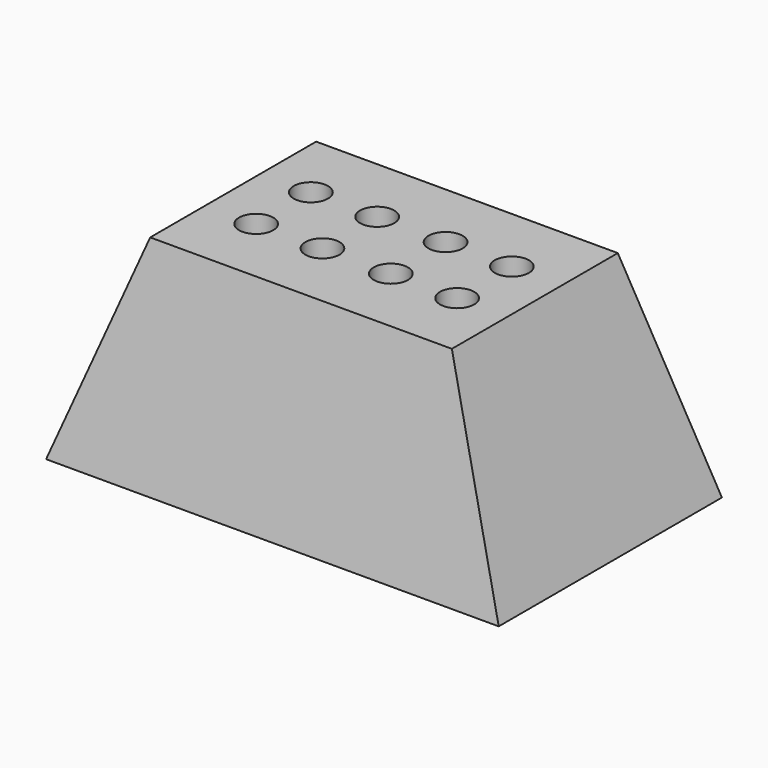
from build123d import *

# Parameters (mm, degrees)
F0_W     = 84.0215459466
F0_H     = 51.7928153276
F2_W     = 56.0011938214
F2_H     = 38.5015532374
F5_D     = 6.35
F5_DEPTH = 12.7
F5_TIP   = 1.9077324654


with BuildPart() as f3:
    # F0 (on Top) → F3 section 0
    with BuildSketch(Plane.XY):
        Rectangle(F0_W, F0_H)
    # F2 (on offset) → F3 section 1
    with BuildSketch(Plane.XY.offset(38.1)):
        Rectangle(F2_W, F2_H)
    loft()

    # F5
    with Locations(Plane.XY.offset(38.1)):
        with Locations((-6.35, -6.35), (-6.35, 6.35), (6.35, -6.35), (-18.6563952234, 6.35), (18.6563952234, -6.35), (-18.6563952234, -6.35), (6.35, 6.35), (18.6563952234, 6.35)):
            Hole(F5_D / 2, depth=F5_DEPTH)
            with Locations((0, 0, -(F5_DEPTH + F5_TIP / 2))):  # 118° drill point
                Cone(0, F5_D / 2, F5_TIP, mode=Mode.SUBTRACT)


solid = f3.part
